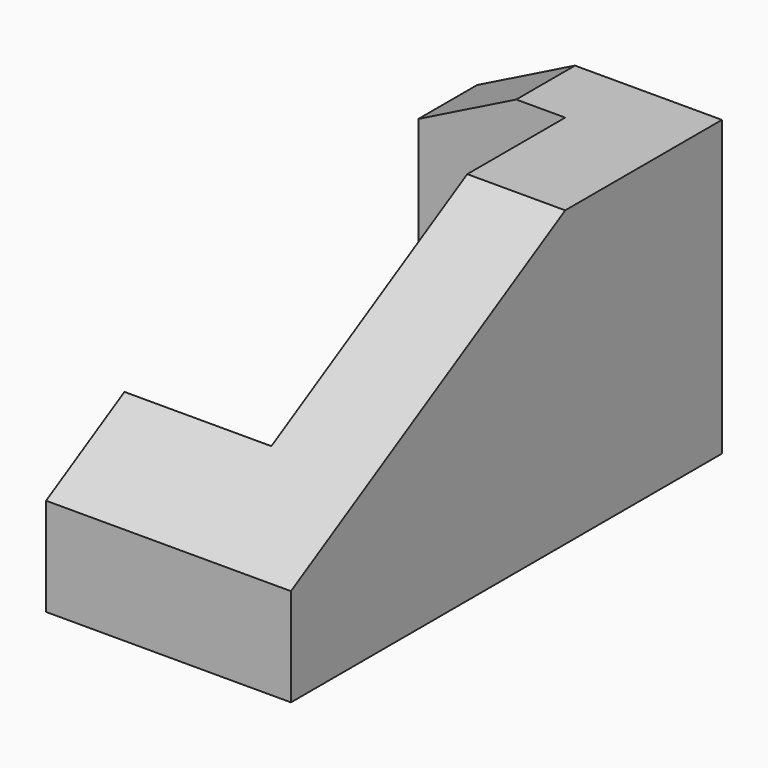
from build123d import *

# Parameters (mm, degrees)
F1_DEPTH = 60
F3_DEPTH = 15
F5_DEPTH = 50


with BuildPart() as f1:
    # F0 (on Top) → F1 (new body)
    with BuildSketch(Plane.XY):
        Polygon((25, -55), (25, 55), (-25, 55), (-25, 40), (5, 40), (5, -35), (-25, -35), (-25, -55), align=None)
    extrude(amount=F1_DEPTH)

    # F2 (on face) → F3 (cut)
    with BuildSketch(Plane(origin=(0, 55, 0), x_dir=(-1, 0, 0), z_dir=(0, 1, 0))):
        Polygon((25, 60), (5, 60), (25, 50), align=None)
    extrude(amount=-F3_DEPTH, mode=Mode.SUBTRACT)

    # F4 (on face) → F5 (cut)
    with BuildSketch(Plane.YZ.offset(25)):
        Polygon((-55, 20), (15, 60), (-55, 60), align=None)
    extrude(amount=-F5_DEPTH, mode=Mode.SUBTRACT)


solid = f1.part
